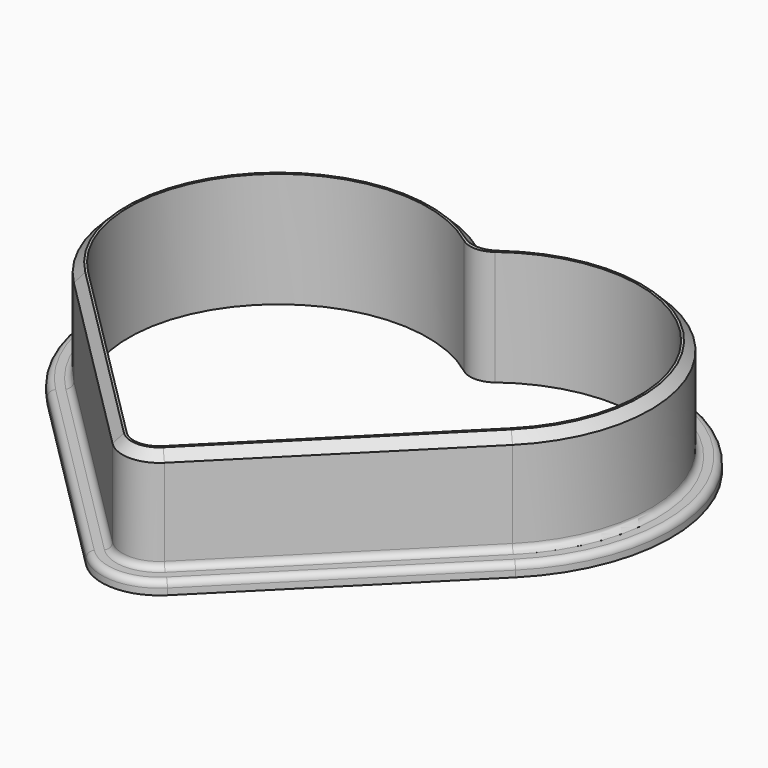
from build123d import *

# Parameters (mm, degrees)
F1_DEPTH = 18
F2_DEPTH = 2
F3_R     = 3
F4_R     = 1
F5_SIZE  = 1.4


with BuildPart() as f1:
    # F0 (on Top) → F1 (new body)
    with BuildSketch(Plane.XY):
        with BuildLine():
            Line((4.065864, 1.59099), (34.374522, 31.899648))
            ThreePointArc((34.374522, 31.899648), (34.963359, 66.902619), (0, 68.668465))
            ThreePointArc((0, 68.668465), (-34.963359, 66.902619), (-34.374522, 31.899648))
            Line((-34.374522, 31.899648), (-4.065864, 1.59099))
            ThreePointArc((-4.065864, 1.59099), (0, -0.093146), (4.065864, 1.59099))
        make_face()
        with BuildLine():
            ThreePointArc((2.828427, 2.828427), (0, 1.656854), (-2.828427, 2.828427))
            Line((-2.828427, 2.828427), (-33.137085, 33.137085))
            ThreePointArc((-33.137085, 33.137085), (-34.231441, 65.102225), (-2.415992, 68.380169))
            ThreePointArc((-2.415992, 68.380169), (0, 67.568113), (2.415992, 68.380169))
            ThreePointArc((2.415992, 68.380169), (34.231441, 65.102225), (33.137085, 33.137085))
            Line((33.137085, 33.137085), (2.828427, 2.828427))
        make_face(mode=Mode.SUBTRACT)
    extrude(amount=F1_DEPTH)

    # F0 (on Top) → F2 (join)
    with BuildSketch(Plane.XY):
        with BuildLine():
            Line((-36.672619, 29.601551), (-6.363961, -0.707107))
            ThreePointArc((-6.363961, -0.707107), (0, -3.343146), (6.363961, -0.707107))
            Line((6.363961, -0.707107), (36.672619, 29.601551))
            ThreePointArc((36.672619, 29.601551), (38.245177, 68.103217), (0, 72.810414))
            ThreePointArc((0, 72.810414), (-38.245177, 68.103217), (-36.672619, 29.601551))
        make_face()
        with BuildLine():
            ThreePointArc((0, 68.668465), (34.963359, 66.902619), (34.374522, 31.899648))
            Line((34.374522, 31.899648), (4.065864, 1.59099))
            ThreePointArc((4.065864, 1.59099), (0, -0.093146), (-4.065864, 1.59099))
            Line((-4.065864, 1.59099), (-34.374522, 31.899648))
            ThreePointArc((-34.374522, 31.899648), (-34.963359, 66.902619), (0, 68.668465))
        make_face(mode=Mode.SUBTRACT)
    extrude(amount=F2_DEPTH)

    # F3
    f3_edges = [f1.edges().sort_by_distance(p)[0] for p in [
        (0, 68.668465, 10),
    ]]
    fillet(f3_edges, radius=F3_R)

    # F4
    f4_edges = [f1.edges().sort_by_distance(p)[0] for p in [
        (35.715275, 66.061313, 2),
        (38.245177, 68.103217, 2),
        (0, 72.810414, 1),
    ]]
    fillet(f4_edges, radius=F4_R)

    # F5
    f5_edges = [f1.edges().sort_by_distance(p)[0] for p in [
        (35.715275, 66.061313, 18),
    ]]
    chamfer(f5_edges, length=F5_SIZE)


solid = f1.part
